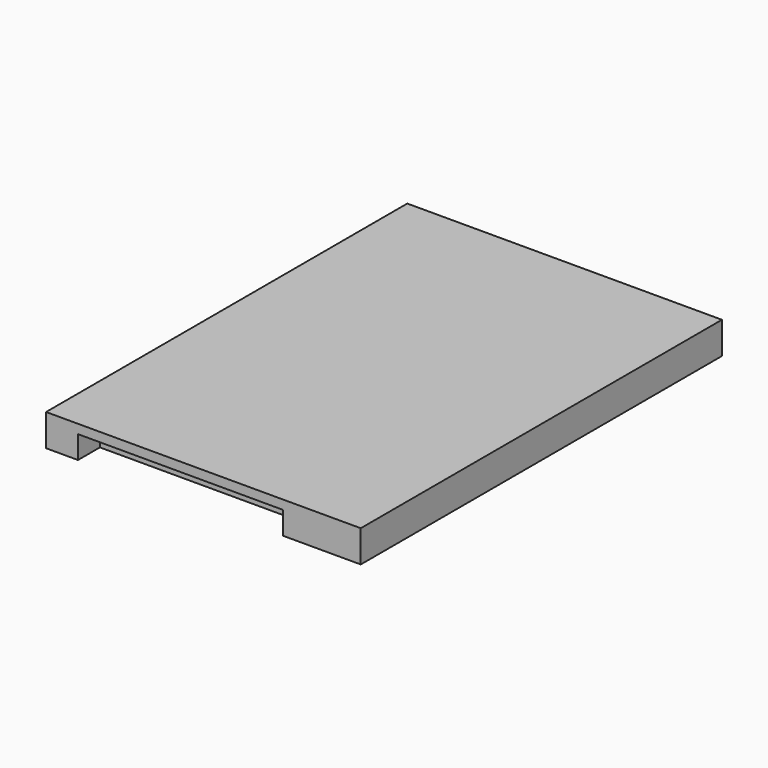
from build123d import *

# Parameters (mm, degrees)
F0_W     = 69
F0_H     = 99
F2_DEPTH = 3.5
F1_W     = 45
F1_H     = 6
F3_DEPTH = 5


with BuildPart() as f2:
    # F0 (on Top) → F2 (new body, symmetric)
    with BuildSketch(Plane.XY):
        Rectangle(F0_W, F0_H)
    extrude(amount=F2_DEPTH, both=True)

    # F1 (on face) → F3 (cut)
    with BuildSketch(Plane(origin=(0, 0, -3.5), x_dir=(1, 0, 0), z_dir=(0, 0, -1))):
        with Locations((-5, 46.5)):
            Rectangle(F1_W, F1_H)
    extrude(amount=-F3_DEPTH, mode=Mode.SUBTRACT)


solid = f2.part
